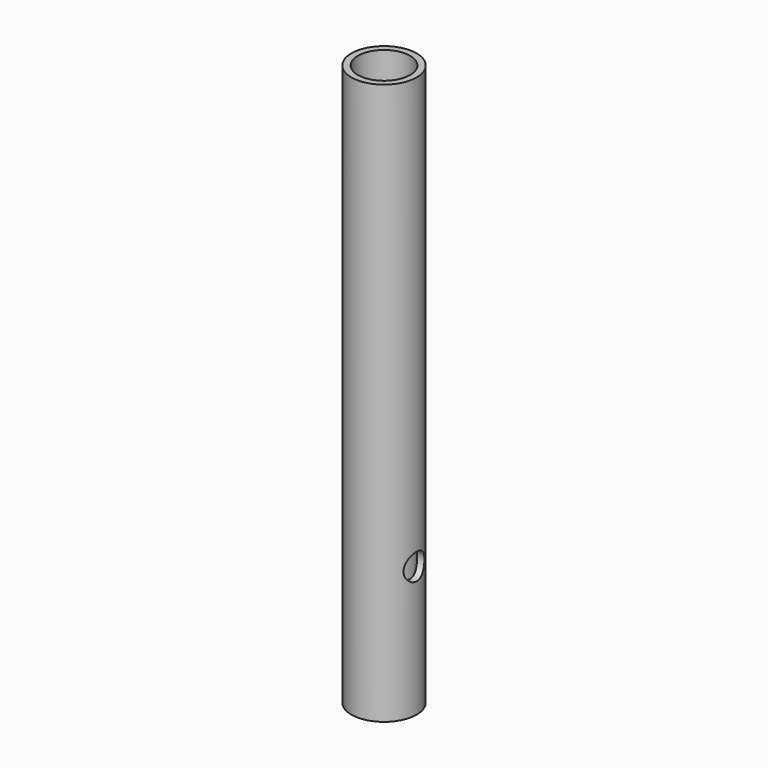
from build123d import *

# Parameters (mm, degrees)
F0_R     = 5
F0_R_2   = 4
F1_DEPTH = 86
F3_R     = 2
F4_DEPTH = 10


with BuildPart() as f1:
    # F0 (on Top) → F1 (new body)
    with BuildSketch(Plane.XY):
        Circle(F0_R)
        Circle(F0_R_2, mode=Mode.SUBTRACT)
    extrude(amount=F1_DEPTH)

    # F3 (on offset) → F4 (cut)
    with BuildSketch(Plane.YZ.offset(5)):
        with Locations((0, 20)):
            Circle(F3_R)
    extrude(amount=-F4_DEPTH, mode=Mode.SUBTRACT)


solid = f1.part
